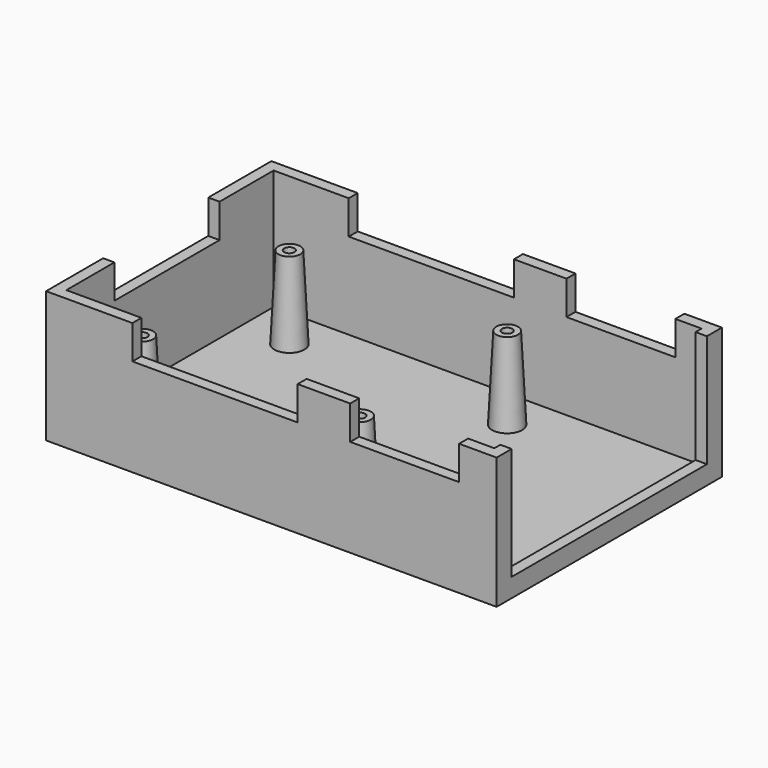
from build123d import *

# Parameters (mm, degrees)
CYLINDER023_R     = 1.38
CYLINDER023_DEPTH = 30
CYLINDER022_R     = 1.38
CYLINDER022_DEPTH = 30
CYLINDER021_R     = 1.38
CYLINDER021_DEPTH = 30
CYLINDER020_R     = 1.38
CYLINDER020_DEPTH = 30
BOX006_W          = 10
BOX006_H          = 65
BOX006_DEPTH      = 35
BOX011_W          = 20
BOX011_H          = 35
BOX011_DEPTH      = 10
BOX010_W          = 29
BOX010_H          = 20
BOX010_DEPTH      = 10
BOX009_W          = 29
BOX009_H          = 20
BOX009_DEPTH      = 10
BOX008_W          = 44
BOX008_H          = 20
BOX008_DEPTH      = 10
BOX007_W          = 44
BOX007_H          = 20
BOX007_DEPTH      = 10
BOX005_W          = 114
BOX005_H          = 69
BOX005_DEPTH      = 35
BOX004_W          = 120
BOX004_H          = 75
BOX004_DEPTH      = 35


with BuildPart() as cylinder023:
    # Cylinder023 → Cylinder023 (new body)
    with BuildSketch(Plane(origin=(74, 61, -2), x_dir=(1, 0, 0), z_dir=(0, 0, 1))):
        Circle(CYLINDER023_R)
    extrude(amount=CYLINDER023_DEPTH)


with BuildPart() as cylinder022:
    # Cylinder022 → Cylinder022 (new body)
    with BuildSketch(Plane(origin=(16, 61, -2), x_dir=(1, 0, 0), z_dir=(0, 0, 1))):
        Circle(CYLINDER022_R)
    extrude(amount=CYLINDER022_DEPTH)


with BuildPart() as cylinder021:
    # Cylinder021 → Cylinder021 (new body)
    with BuildSketch(Plane(origin=(16, 12, -2), x_dir=(1, 0, 0), z_dir=(0, 0, 1))):
        Circle(CYLINDER021_R)
    extrude(amount=CYLINDER021_DEPTH)


with BuildPart() as fusion008:
    # Cylinder020 → Cylinder020 (new body)
    with BuildSketch(Plane(origin=(74, 12, -2), x_dir=(1, 0, 0), z_dir=(0, 0, 1))):
        Circle(CYLINDER020_R)
    extrude(amount=CYLINDER020_DEPTH)

    # Fusion008: union Cylinder023, Cylinder022, Cylinder021
    add(cylinder023.part)
    add(cylinder022.part)
    add(cylinder021.part)


with BuildPart() as kegel003:
    # Cone003 → Cone003 (revolve)
    with BuildSketch(Plane(origin=(16, 61, 3), x_dir=(1, 0, 0), z_dir=(0, -1, 0))):
        Polygon((0, 0), (4, 0), (2.9, 22), (0, 22), align=None)
    revolve(axis=Axis((16, 61, 3), (0, 0, 1)))


with BuildPart() as kegel002:
    # Cone002 → Cone002 (revolve)
    with BuildSketch(Plane(origin=(16, 12, 3), x_dir=(1, 0, 0), z_dir=(0, -1, 0))):
        Polygon((0, 0), (4, 0), (2.9, 22), (0, 22), align=None)
    revolve(axis=Axis((16, 12, 3), (0, 0, 1)))


with BuildPart() as kegel001:
    # Cone001 → Cone001 (revolve)
    with BuildSketch(Plane(origin=(74, 61, 3), x_dir=(1, 0, 0), z_dir=(0, -1, 0))):
        Polygon((0, 0), (4, 0), (2.9, 22), (0, 22), align=None)
    revolve(axis=Axis((74, 61, 3), (0, 0, 1)))


with BuildPart() as fusion015:
    # Cone → Cone (revolve)
    with BuildSketch(Plane(origin=(74, 12, 3), x_dir=(1, 0, 0), z_dir=(0, -1, 0))):
        Polygon((0, 0), (4, 0), (2.9, 22), (0, 22), align=None)
    revolve(axis=Axis((74, 12, 3), (0, 0, 1)))

    # Fusion015: union Kegel003, Kegel002, Kegel001
    add(kegel003.part)
    add(kegel002.part)
    add(kegel001.part)


with BuildPart() as obj1:
    # Box006 → Box006 (new body)
    with BuildSketch(Plane(origin=(115, 5, 5), x_dir=(1, 0, 0), z_dir=(0, 0, 1))):
        with Locations((5, 32.5)):
            Rectangle(BOX006_W, BOX006_H)
    extrude(amount=BOX006_DEPTH)


with BuildPart() as obj2:
    # Box011 → Box011 (new body)
    with BuildSketch(Plane(origin=(-10, 19, 26), x_dir=(1, 0, 0), z_dir=(0, 0, 1))):
        with Locations((10, 17.5)):
            Rectangle(BOX011_W, BOX011_H)
    extrude(amount=BOX011_DEPTH)


with BuildPart() as obj3:
    # Box010 → Box010 (new body)
    with BuildSketch(Plane(origin=(81, 60, 26), x_dir=(1, 0, 0), z_dir=(0, 0, 1))):
        with Locations((14.5, 10)):
            Rectangle(BOX010_W, BOX010_H)
    extrude(amount=BOX010_DEPTH)


with BuildPart() as obj4:
    # Box009 → Box009 (new body)
    with BuildSketch(Plane(origin=(81, -10, 26), x_dir=(1, 0, 0), z_dir=(0, 0, 1))):
        with Locations((14.5, 10)):
            Rectangle(BOX009_W, BOX009_H)
    extrude(amount=BOX009_DEPTH)


with BuildPart() as obj5:
    # Box008 → Box008 (new body)
    with BuildSketch(Plane(origin=(23, 68, 26), x_dir=(1, 0, 0), z_dir=(0, 0, 1))):
        with Locations((22, 10)):
            Rectangle(BOX008_W, BOX008_H)
    extrude(amount=BOX008_DEPTH)


with BuildPart() as fusion014:
    # Box007 → Box007 (new body)
    with BuildSketch(Plane(origin=(23, -10, 26), x_dir=(1, 0, 0), z_dir=(0, 0, 1))):
        with Locations((22, 10)):
            Rectangle(BOX007_W, BOX007_H)
    extrude(amount=BOX007_DEPTH)

    # Fusion010: union obj2, obj3, obj4, obj5
    add(obj2.part)
    add(obj3.part)
    add(obj4.part)
    add(obj5.part)

    # Fusion014: union obj1
    add(obj1.part)


with BuildPart() as obj6:
    # Box005 → Box005 (new body)
    with BuildSketch(Plane(origin=(3, 3, 3), x_dir=(1, 0, 0), z_dir=(0, 0, 1))):
        with Locations((57, 34.5)):
            Rectangle(BOX005_W, BOX005_H)
    extrude(amount=BOX005_DEPTH)


with BuildPart() as obj7:
    # Box004 → Box004 (new body)
    with BuildSketch(Plane.XY):
        with Locations((60, 37.5)):
            Rectangle(BOX004_W, BOX004_H)
    extrude(amount=BOX004_DEPTH)

    # Cut006: cut obj6
    add(obj6.part, mode=Mode.SUBTRACT)

    # Cut007: cut Fusion014
    add(fusion014.part, mode=Mode.SUBTRACT)

    # Fusion016: union Fusion015
    add(fusion015.part)

    # Cut008: cut Fusion008
    add(fusion008.part, mode=Mode.SUBTRACT)


solid = obj7.part
